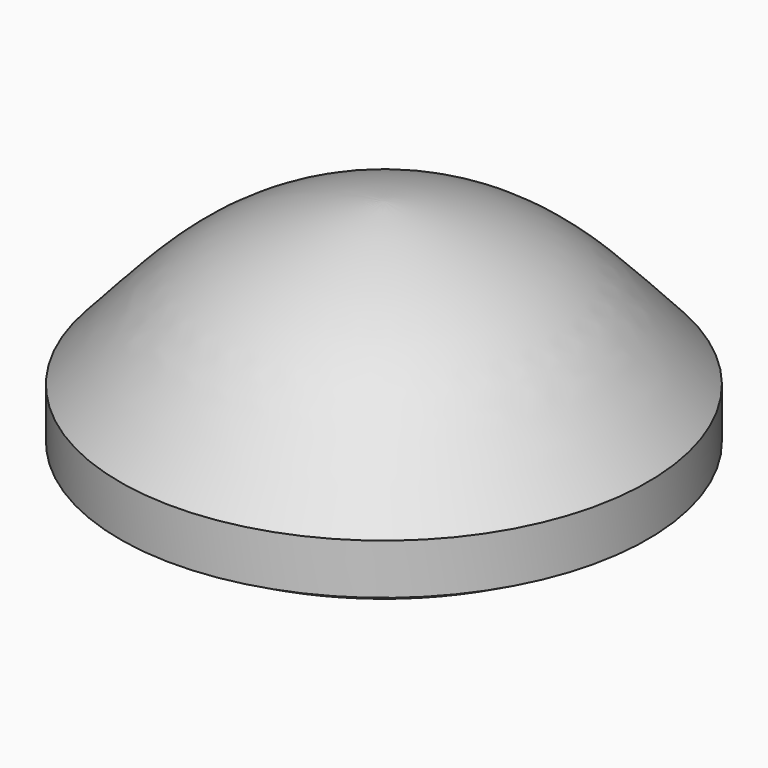
from build123d import *

# Parameters (mm, degrees)
F0_W = 6.5
F0_H = 1.24


with BuildPart() as f1:
    # F0 (on Front) → F1 (revolve)
    with BuildSketch(Plane.XZ):
        with BuildLine():
            Line((0, 1.7861809051), (-6.5, 1.7861809051))
            ThreePointArc((-6.5, 1.7861809051), (-3.37047631, 0.454671246), (0, 0))
            Line((0, 0), (0, 1.7861809051))
        make_face()
        with Locations((-3.25, 2.4061809051)):
            Rectangle(F0_W, F0_H)
        with BuildLine():
            add(Edge.make_bspline(
                [(-6.5, 3.0261809051), (-5.3573995829, 4.2725410312), (-3.9196493852, 6.0849644276), (-0.8001727983, 7), (0, 7)],
                knots=[0, 0, 0, 0, 0.5215591243, 1, 1, 1, 1], degree=3))
            Line((-6.5, 3.0261809051), (0, 3.0261809051))
            Line((0, 3.0261809051), (0, 7))
        make_face()
    revolve(axis=Axis((0, 0, 3.5), (0, 0, -1)))


solid = f1.part
